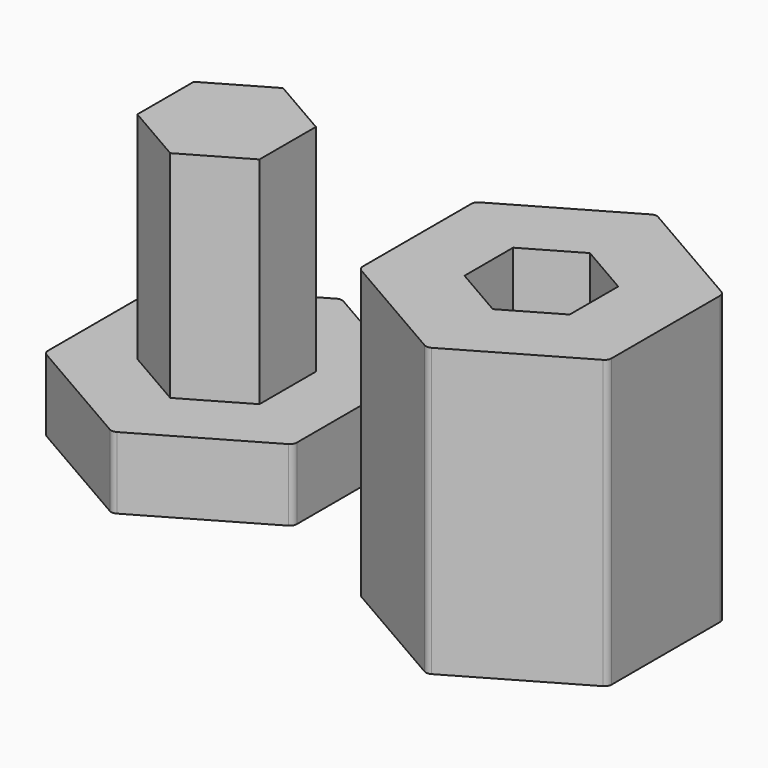
from build123d import *

# Parameters (mm, degrees)
F1_DEPTH = 10.16
F2_DEPTH = 2.54
F3_DEPTH = 10.16
F4_DEPTH = 2.54


with BuildPart() as f1:
    # F0 (on Top) → F1 (new body)
    with BuildSketch(Plane.XY):
        Polygon((-10.625117, 0.819381), (-10.625117, 3.31238), (-12.784117, 4.558879), (-14.943117, 3.31238), (-14.943117, 0.819381), (-12.784117, -0.427118), align=None)
    extrude(amount=F1_DEPTH)

    # F0 (on Top) → F2 (join)
    with BuildSketch(Plane.XY):
        with BuildLine():
            Line((-12.911117, 7.072557), (-17.056526, 4.679204))
            ThreePointArc((-17.056526, 4.679204), (-17.149497, 4.586234), (-17.183526, 4.459234))
            Line((-17.183526, 4.459234), (-17.183526, -0.327472))
            ThreePointArc((-17.183526, -0.327472), (-17.149497, -0.454472), (-17.056526, -0.547443))
            Line((-17.056526, -0.547443), (-12.911117, -2.940796))
            ThreePointArc((-12.911117, -2.940796), (-12.784117, -2.974825), (-12.657117, -2.940796))
            Line((-12.657117, -2.940796), (-8.511708, -0.547443))
            ThreePointArc((-8.511708, -0.547443), (-8.418738, -0.454472), (-8.384708, -0.327472))
            Line((-8.384708, -0.327472), (-8.384708, 4.459234))
            ThreePointArc((-8.384708, 4.459234), (-8.418738, 4.586234), (-8.511708, 4.679204))
            Line((-8.511708, 4.679204), (-12.657117, 7.072557))
            ThreePointArc((-12.657117, 7.072557), (-12.784117, 7.106587), (-12.911117, 7.072557))
        make_face()
        Polygon((-12.784117, 4.558879), (-10.625117, 3.31238), (-10.625117, 0.819381), (-12.784117, -0.427118), (-14.943117, 0.819381), (-14.943117, 3.31238), align=None, mode=Mode.SUBTRACT)
    extrude(amount=F2_DEPTH)


with BuildPart() as f3:
    # F0 (on Top) → F3 (new body)
    with BuildSketch(Plane.XY):
        with BuildLine():
            Line((-0.127, 5.006677), (-4.272409, 2.613323))
            ThreePointArc((-4.272409, 2.613323), (-4.36538, 2.520353), (-4.399409, 2.393353))
            Line((-4.399409, 2.393353), (-4.399409, -2.393353))
            ThreePointArc((-4.399409, -2.393353), (-4.36538, -2.520353), (-4.272409, -2.613323))
            Line((-4.272409, -2.613323), (-0.127, -5.006677))
            ThreePointArc((-0.127, -5.006677), (0, -5.040706), (0.127, -5.006677))
            Line((0.127, -5.006677), (4.272409, -2.613323))
            ThreePointArc((4.272409, -2.613323), (4.36538, -2.520353), (4.399409, -2.393353))
            Line((4.399409, -2.393353), (4.399409, 2.393353))
            ThreePointArc((4.399409, 2.393353), (4.36538, 2.520353), (4.272409, 2.613323))
            Line((4.272409, 2.613323), (0.127, 5.006677))
            ThreePointArc((0.127, 5.006677), (0, 5.040706), (-0.127, 5.006677))
        make_face()
        Polygon((0, 2.147061), (1.859409, 1.07353), (1.859409, -1.07353), (0, -2.147061), (-1.859409, -1.07353), (-1.859409, 1.07353), align=None, mode=Mode.SUBTRACT)
    extrude(amount=F3_DEPTH)

    # F0 (on Top) → F4 (join)
    with BuildSketch(Plane.XY):
        Polygon((1.859409, -1.07353), (1.859409, 1.07353), (0, 2.147061), (-1.859409, 1.07353), (-1.859409, -1.07353), (0, -2.147061), align=None)
    extrude(amount=F4_DEPTH)


solid = Compound([f1.part, f3.part])
